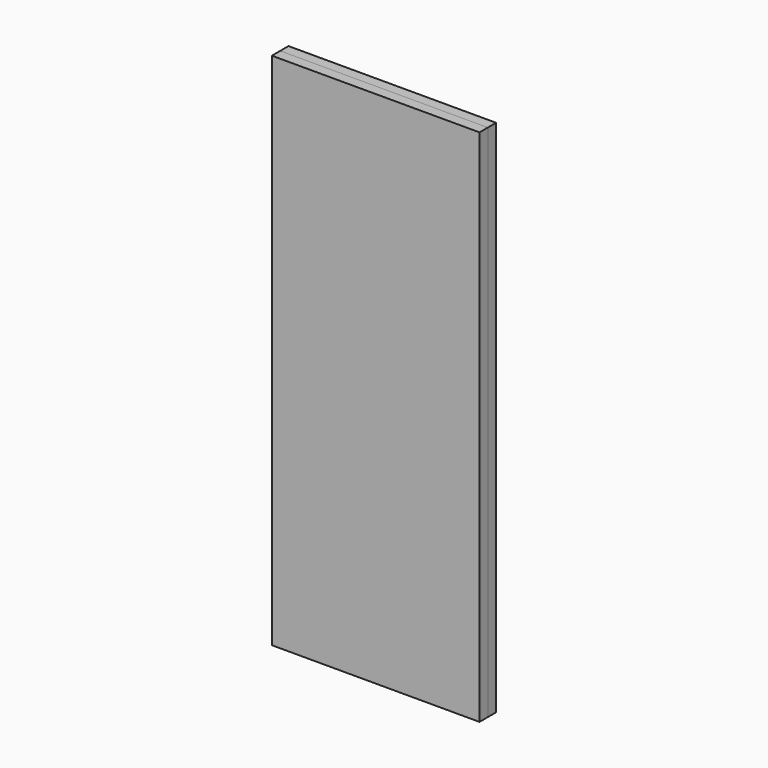
from build123d import *

# Parameters (mm, degrees)
F0_W     = 609.6
F0_H     = 1524
F1_DEPTH = 30.48
F3_DEPTH = 609.6
F4_W     = 45.72
F4_H     = 30.48
F5_DEPTH = 609.6
F6_W     = 609.6
F6_H     = 1524
F7_DEPTH = 30.48


with BuildPart() as f1:
    # F0 (on Front) → F1 (new body)
    with BuildSketch(Plane.XZ):
        Rectangle(F0_W, F0_H)
    extrude(amount=F1_DEPTH)

    # F2 (on face) → F3 (cut)
    with BuildSketch(Plane.YZ.offset(304.8)):
        Polygon((-30.48, 487.68), (0, 457.2), (11.940295, 466.81232), (-36.499559, 515.252174), (-47.275866, 504.475866), align=None)
    extrude(amount=-F3_DEPTH, mode=Mode.SUBTRACT)

    # F4 (on face) → F5 (join)
    with BuildSketch(Plane.XY.offset(762)):
        with Locations((-281.94, -15.24)):
            Rectangle(F4_W, F4_H)
        with Locations((281.94, -15.24)):
            Rectangle(F4_W, F4_H)
    extrude(amount=-F5_DEPTH)


with BuildPart() as f7:
    # F6 (on face) → F7 (new body)
    with BuildSketch(Plane.XZ.offset(30.48)):
        Rectangle(F6_W, F6_H)
    extrude(amount=F7_DEPTH)


solid = Compound([f1.part, f7.part])
